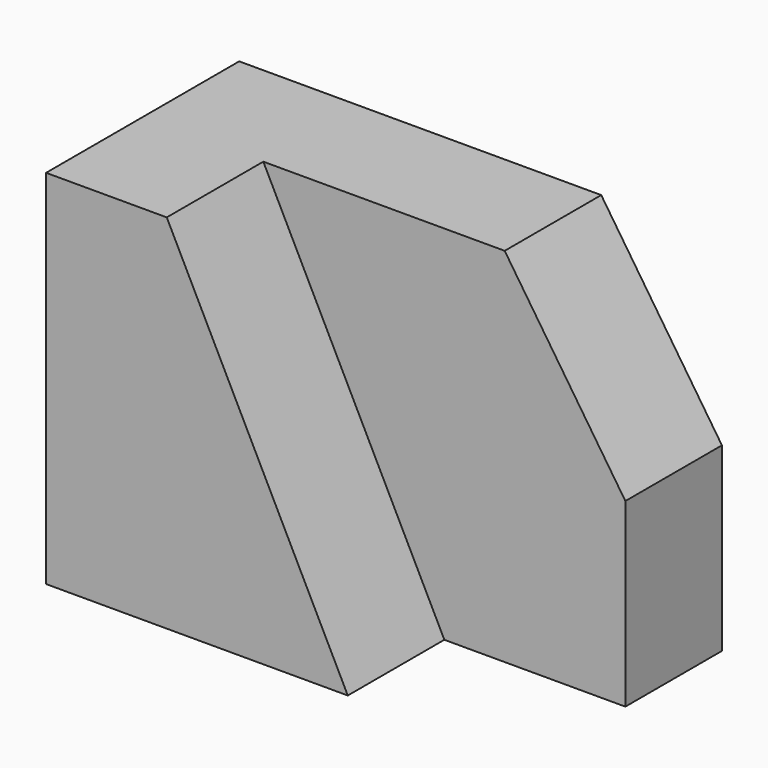
from build123d import *

# Parameters (mm, degrees)
F1_DEPTH = 5.08
F3_DEPTH = 5.08


with BuildPart() as f1:
    # F0 (on Front) → F1 (new body)
    with BuildSketch(Plane.XZ):
        Polygon((0, 15.24), (0, 0), (12.7, 0), (5.08, 15.24), align=None)
    extrude(amount=F1_DEPTH)

    # F2 (on face) → F3 (join)
    with BuildSketch(Plane(origin=(0, 0, 0), x_dir=(-1, 0, 0), z_dir=(0, 1, 0))):
        Polygon((-12.7, 0), (0, 0), (0, 15.24), (-5.08, 15.24), align=None)
        Polygon((-20.32, 0), (-12.7, 0), (-5.08, 15.24), (-15.24, 15.24), (-20.32, 7.62), align=None)
    extrude(amount=F3_DEPTH)


solid = f1.part
